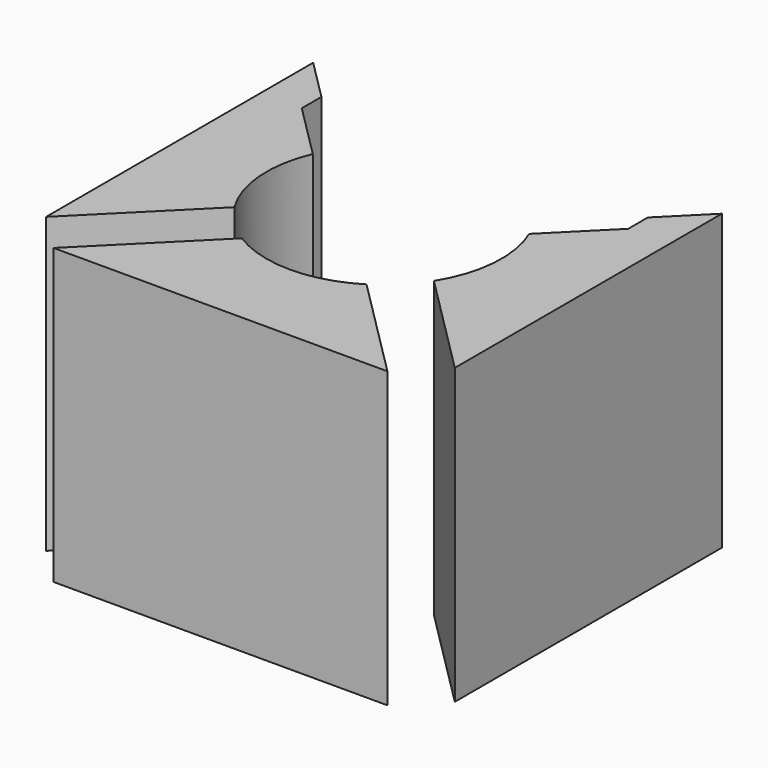
from build123d import *

# Parameters (mm, degrees)
F2_DEPTH = 10


with BuildPart() as f2:
    # F1 (on Top) → F2 (new body)
    with BuildSketch(Plane.XY):
        with BuildLine():
            Line((-3.678439, 1.571332), (-5.55, 3.442893))
            Line((-5.55, 3.442893), (-5.55, 4.277208))
            Line((-5.55, 4.277208), (-6.95, 5.677208))
            Line((-6.95, 5.677208), (-6.95, -5.677208))
            Line((-6.95, -5.677208), (-3.392299, -2.119507))
            ThreePointArc((-3.392299, -2.119507), (-3.988033, -0.309181), (-3.678439, 1.571332))
        make_face()
        with BuildLine():
            Line((6.95, -5.677208), (6.95, 5.677208))
            Line((6.95, 5.677208), (5.55, 4.277208))
            Line((5.55, 4.277208), (5.55, 3.442893))
            Line((5.55, 3.442893), (3.678439, 1.571332))
            ThreePointArc((3.678439, 1.571332), (3.988033, -0.309181), (3.392299, -2.119507))
            Line((3.392299, -2.119507), (6.95, -5.677208))
        make_face()
        with BuildLine():
            Line((-2.119507, -3.392299), (-5.677208, -6.95))
            Line((-5.677208, -6.95), (5.677208, -6.95))
            Line((5.677208, -6.95), (2.119507, -3.392299))
            ThreePointArc((2.119507, -3.392299), (0, -4), (-2.119507, -3.392299))
        make_face()
    extrude(amount=F2_DEPTH)


solid = f2.part
